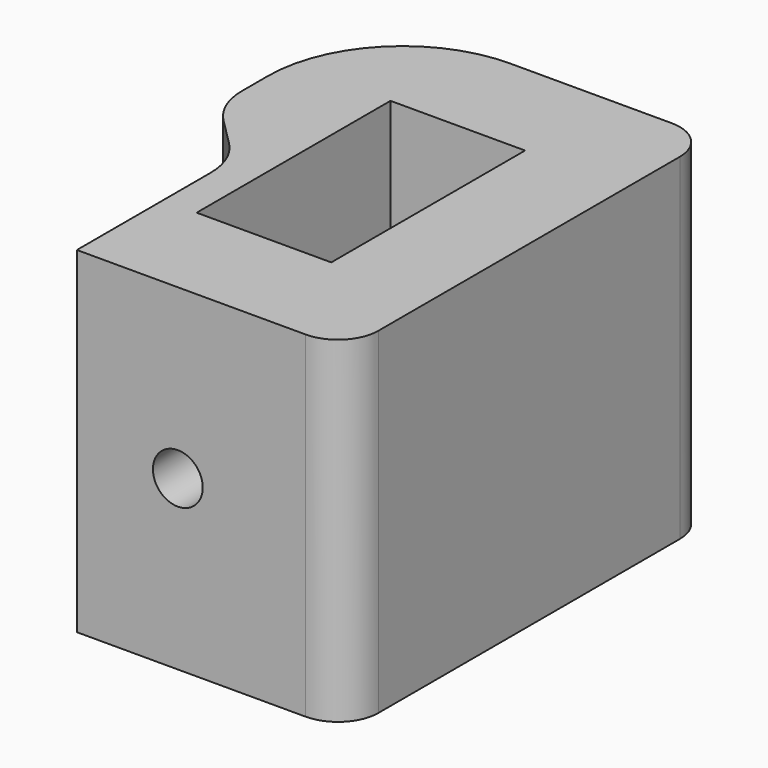
from build123d import *

# Parameters (mm, degrees)
F0_W     = 10
F0_H     = 18
F1_DEPTH = 25
F2_R     = 5
F3_R     = 1.85
F4_DEPTH = 50
F5_R     = 10
F6_R     = 3


with BuildPart() as f1:
    # F0 (on Top) → F1 (new body)
    with BuildSketch(Plane.XY):
        Polygon((-7.5, 0), (0, 0), (7.5, 0), (12.5, 0), (12.5, 19.5), (12.5, 34), (0, 34), (-12.5, 34), (-12.5, 19.5), (-7.5, 14.5), align=None)
        with Locations((0, 17)):
            Rectangle(F0_W, F0_H, mode=Mode.SUBTRACT)
    extrude(amount=F1_DEPTH)

    # F2
    f2_edges = [f1.edges().sort_by_distance(p)[0] for p in [
        (-12.5, 19.5, 12.5),
        (-7.5, 14.5, 12.5),
    ]]
    fillet(f2_edges, radius=F2_R)

    # F3 (on face) → F4 (cut, symmetric)
    with BuildSketch(Plane(origin=(0, 8, 0), x_dir=(-1, 0, 0), z_dir=(0, 1, 0))):
        with Locations((0, 12.5)):
            Circle(F3_R)
    extrude(amount=F4_DEPTH, both=True, mode=Mode.SUBTRACT)

    # F5
    f5_edges = [f1.edges().sort_by_distance(p)[0] for p in [
        (-12.5, 34, 12.5),
    ]]
    fillet(f5_edges, radius=F5_R)

    # F6
    f6_edges = [f1.edges().sort_by_distance(p)[0] for p in [
        (12.5, 34, 12.5),
        (12.5, 0, 12.5),
    ]]
    fillet(f6_edges, radius=F6_R)


solid = f1.part
